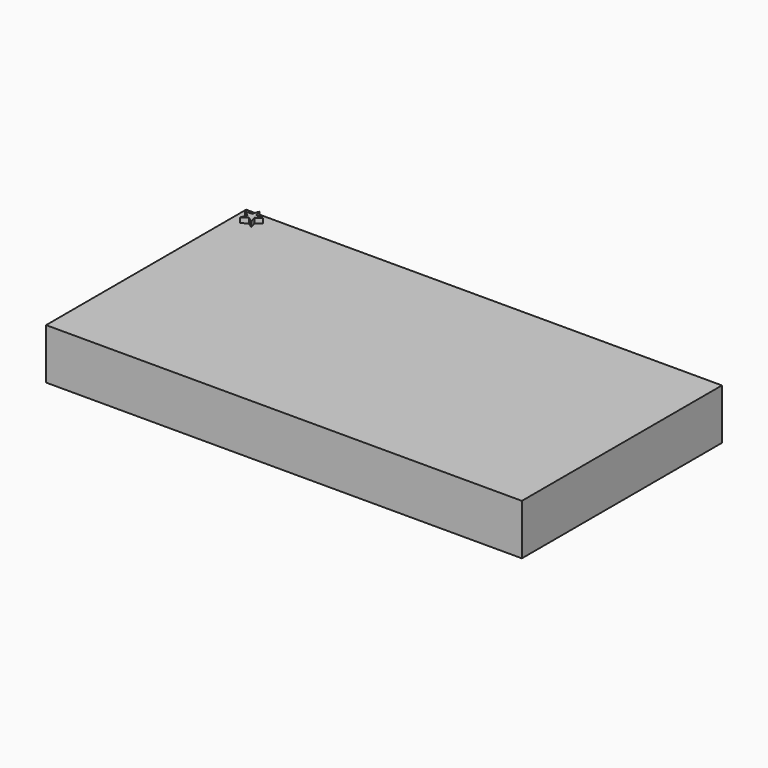
from build123d import *

# Parameters (mm, degrees)
F0_W     = 119.38
F0_H     = 62.738
F1_DEPTH = 12.7
F3_DEPTH = 1.27


with BuildPart() as f1:
    # F0 (on Top) → F1 (new body)
    with BuildSketch(Plane.XY):
        Rectangle(F0_W, F0_H)
    extrude(amount=F1_DEPTH)

    # F2 (on face) → F3 (join)
    with BuildSketch(Plane.XY.offset(12.7)):
        Polygon((-55.097335, 28.794645), (-55.626, 30.421709), (-56.154665, 28.794645), (-57.865462, 28.794645), (-56.481398, 27.789064), (-57.010064, 26.162), (-55.626, 27.167581), (-54.241936, 26.162), (-54.770602, 27.789064), (-53.386538, 28.794645), align=None)
    extrude(amount=F3_DEPTH)


solid = f1.part
